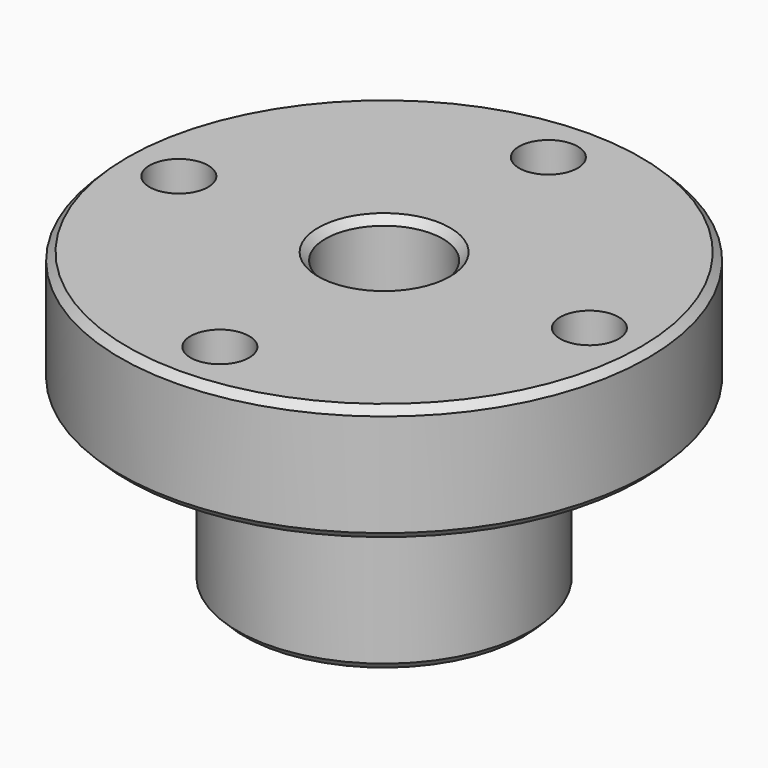
from build123d import *

# Parameters (mm, degrees)
F2_SIZE  = 0.5
F3_R     = 2
F4_DEPTH = 25


with BuildPart() as f1:
    # F0 (on Front) → F1 (revolve)
    with BuildSketch(Plane.XZ):
        Polygon((18, 0), (4, 0), (4, -20), (10, -20), (10, -8), (18, -8), align=None)
    revolve(axis=Axis((0, 0, -14.821168), (0, 0, -1)))

    # F2
    f2_edges = [f1.edges().sort_by_distance(p)[0] for p in [
        (-18, 0, 0),
        (-18, 0, -8),
        (-10, 0, -20),
        (-4, 0, 0),
        (-4, 0, -20),
    ]]
    chamfer(f2_edges, length=F2_SIZE)

    # F3 (on face) → F4 (cut)
    with BuildSketch(Plane.XY):
        with Locations((14, 0)):
            Circle(F3_R)
        with Locations((-14, 0)):
            Circle(F3_R)
        with Locations((0, 14)):
            Circle(F3_R)
        with Locations((0, -14)):
            Circle(F3_R)
    extrude(amount=-F4_DEPTH, mode=Mode.SUBTRACT)


solid = f1.part
